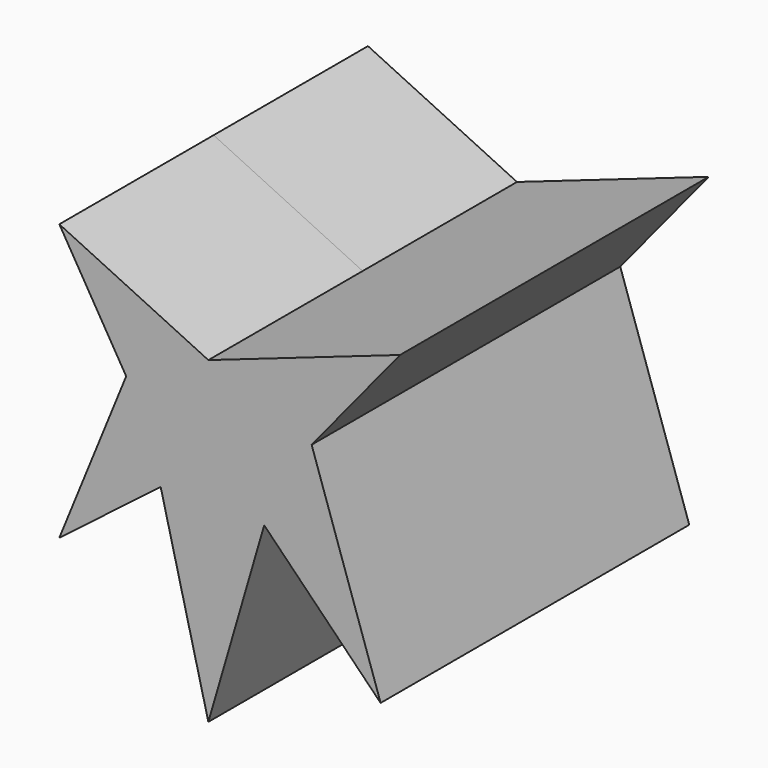
from build123d import *

# Parameters (mm, degrees)
F1_DEPTH = 50.8
F2_DEPTH = 25.4


with BuildPart() as f1:
    # F0 (on Front) → F1 (new body)
    with BuildSketch(Plane.XZ):
        Polygon((-6.276771, 25.192136), (0, 0), (7.352213, 25.192136), (22.684813, 9.575595), (13.598827, 36.549617), (25.240248, 50.746471), (0, 41.944422), (-19.621812, 51.314346), (-10.819764, 36.549617), (-19.621812, 14.9704), align=None)
    extrude(amount=F1_DEPTH)

    # F1_face (on face) → F2 (join)
    with BuildSketch(Plane(origin=(1.857024, -50.8, 30.381378), x_dir=(1, 0, 0), z_dir=(0, -1, 0))):
        Polygon((-8.133795, -5.189242), (-1.857024, -30.381378), (5.495188, -5.189242), (20.827788, -20.805783), (11.741802, 6.168239), (23.383224, 20.365093), (-1.857024, 11.563044), (-21.478836, 20.932969), (-12.676788, 6.168239), (-21.478836, -15.410977), align=None)
    extrude(amount=-F2_DEPTH)


solid = f1.part
